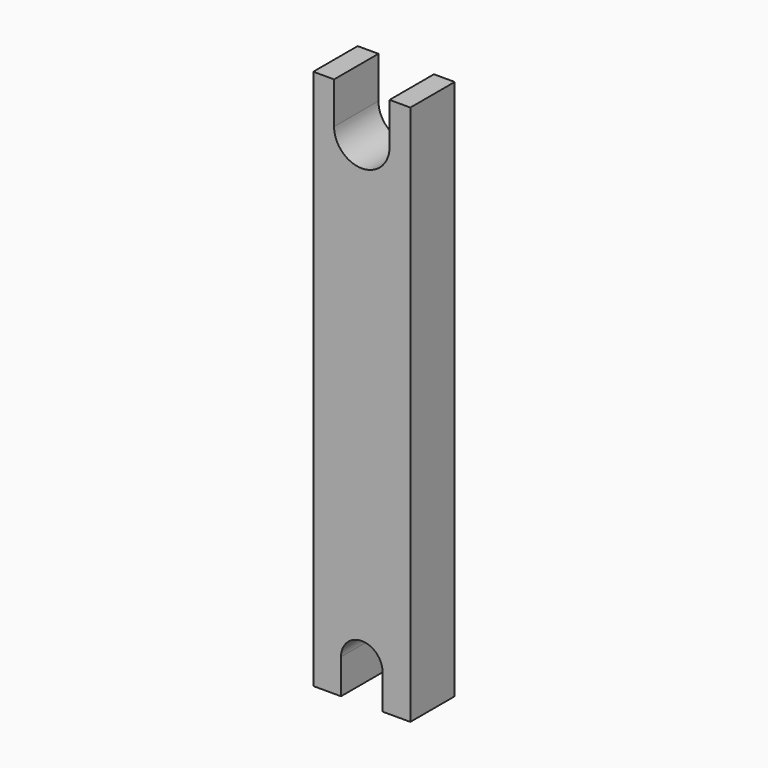
from build123d import *

# Parameters (mm, degrees)
F1_DEPTH = 4


with BuildPart() as f1:
    # F0 (on Front) → F1 (new body)
    with BuildSketch(Plane.XZ):
        with BuildLine():
            Line((2, 15), (2, 12))
            ThreePointArc((2, 12), (0, 10), (-2, 12))
            Line((-2, 12), (-2, 15))
            Line((-2, 15), (-3.5, 15))
            Line((-3.5, 15), (-3.5, 0))
            Line((-3.5, 0), (-3.5, -24))
            Line((-3.5, -24), (-1.5, -24))
            Line((-1.5, -24), (-1.5, -21.5))
            ThreePointArc((-1.5, -21.5), (0, -20), (1.5, -21.5))
            Line((1.5, -21.5), (1.5, -24))
            Line((1.5, -24), (3.5, -24))
            Line((3.5, -24), (3.5, 15))
            Line((3.5, 15), (2, 15))
        make_face()
    extrude(amount=F1_DEPTH)


solid = f1.part
